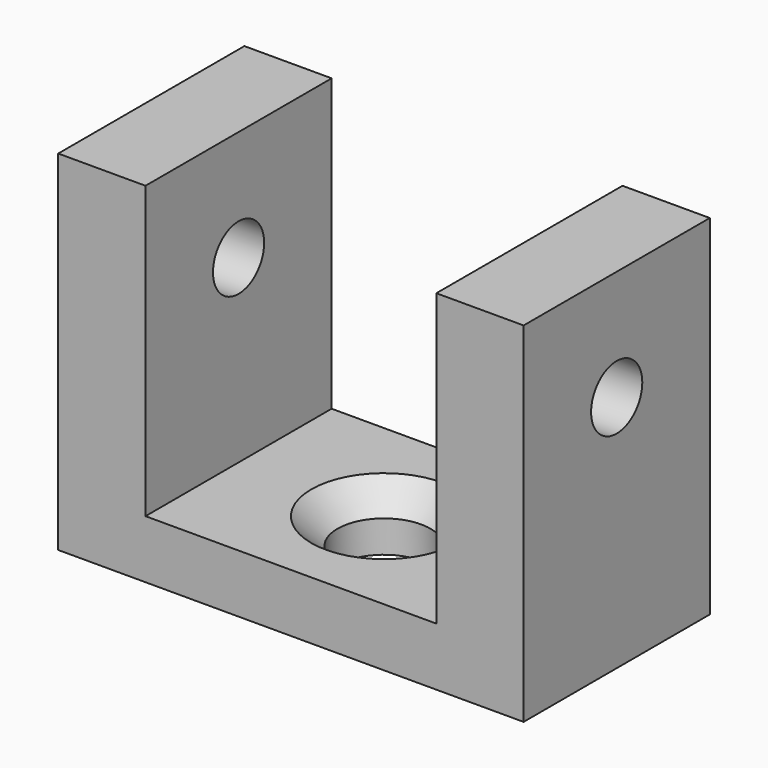
from build123d import *

# Parameters (mm, degrees)
SKETCH_W            = 16
SKETCH_H            = 8
PAD_DEPTH           = 2
SKETCH001_W         = 3
SKETCH001_H         = 8
PAD001_DEPTH        = 10
SKETCH002_R         = 1.1
HOLE_DEPTH          = 16.001
HOLE001_D           = 3.2
HOLE001_CSINK_D     = 5
HOLE001_CSINK_ANGLE = 90


with BuildPart() as part:
    # Sketch → Pad (new body)
    with BuildSketch(Plane.XY):
        Rectangle(SKETCH_W, SKETCH_H)
    extrude(amount=PAD_DEPTH)

    # Sketch001 (on Face6 of Pad) → Pad001 (join)
    with BuildSketch(Plane.XY.offset(2)):
        with Locations((-6.5, 0)):
            Rectangle(SKETCH001_W, SKETCH001_H)
        with Locations((6.5, 0)):
            Rectangle(SKETCH001_W, SKETCH001_H)
    extrude(amount=PAD001_DEPTH)

    # Sketch002 (on Face10 of Pad001) → Hole (cut, through all)
    with BuildSketch(Plane.YZ.offset(8)):
        with Locations((0, 8.2)):
            Circle(SKETCH002_R)
    extrude(amount=-HOLE_DEPTH, mode=Mode.SUBTRACT)

    # Hole001 (through all)
    with Locations(Plane.XY.offset(2)):
        with Locations((0, 0)):
            CounterSinkHole(HOLE001_D / 2, HOLE001_CSINK_D / 2, counter_sink_angle=HOLE001_CSINK_ANGLE)


solid = part.part
